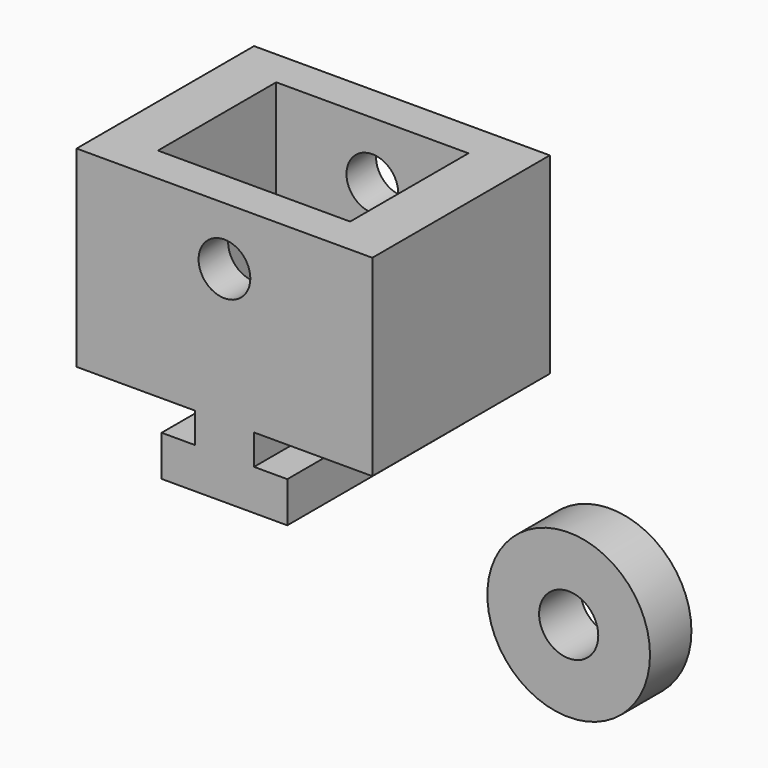
from build123d import *

# Parameters (mm, degrees)
F0_W      = 17
F0_H      = 30
F1_DEPTH  = 5.5
F2_W      = 8
F2_H      = 30
F3_DEPTH  = 4.1
F4_W      = 40
F4_H      = 30
F5_DEPTH  = 26
F6_W      = 26
F6_H      = 20
F7_DEPTH  = 24
F8_R      = 3.5
F9_DEPTH  = 30.001
F10_R     = 11
F10_R_2   = 4
F11_DEPTH = 7


with BuildPart() as f1:
    # F0 (on Top) → F1 (new body)
    with BuildSketch(Plane.XY):
        with Locations((-39.56, 40.456501)):
            Rectangle(F0_W, F0_H)
    extrude(amount=F1_DEPTH)

    # F2 (on face) → F3 (join)
    with BuildSketch(Plane.XY.offset(5.5)):
        with Locations((-39.56, 40.456501)):
            Rectangle(F2_W, F2_H)
    extrude(amount=F3_DEPTH)

    # F4 (on face) → F5 (join)
    with BuildSketch(Plane.XY.offset(9.6)):
        with Locations((-39.56, 40.456501)):
            Rectangle(F4_W, F4_H)
    extrude(amount=F5_DEPTH)

    # F6 (on face) → F7 (cut)
    with BuildSketch(Plane.XY.offset(35.6)):
        with Locations((-39.56, 40.456501)):
            Rectangle(F6_W, F6_H)
    extrude(amount=-F7_DEPTH, mode=Mode.SUBTRACT)

    # F8 (on face) → F9 (cut, through all)
    with BuildSketch(Plane.XZ.offset(-25.456501)):
        with Locations((-39.56, 27.772)):
            Circle(F8_R)
    extrude(amount=-F9_DEPTH, mode=Mode.SUBTRACT)


with BuildPart() as f11:
    # F10 (on Front) → F11 (new body)
    with BuildSketch(Plane.XZ):
        with Locations((32.960638, 22.173997)):
            Circle(F10_R)
        with Locations((32.960638, 22.173997)):
            Circle(F10_R_2, mode=Mode.SUBTRACT)
    extrude(amount=F11_DEPTH)


solid = Compound([f1.part, f11.part])
